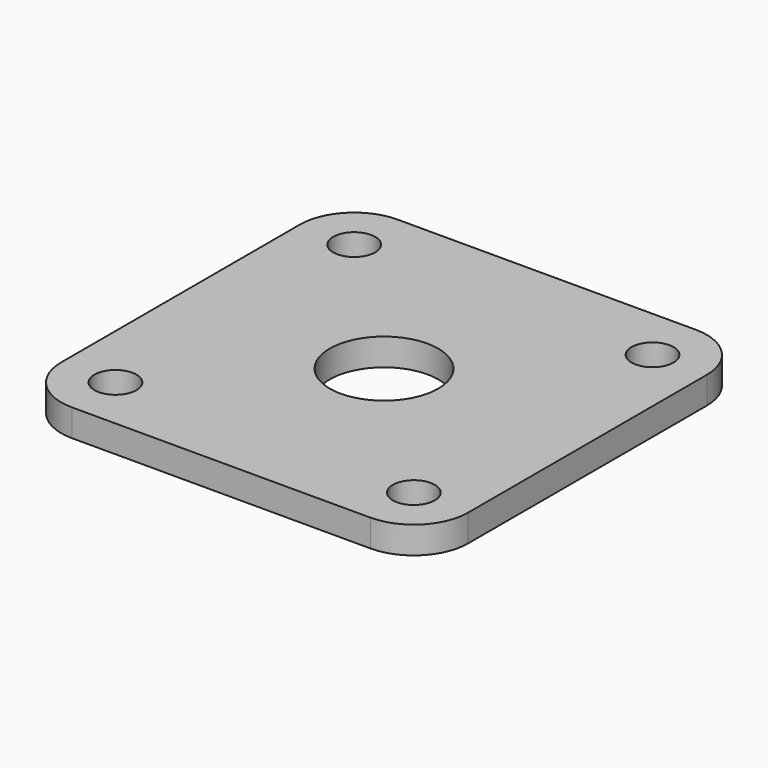
from build123d import *

# Parameters (mm, degrees)
SKETCH_W      = 30
SKETCH_H      = 30
SKETCH_R      = 4
SKETCH_R_2    = 1.55
EXTRUDE_DEPTH = 2
FILLET_R      = 4


with BuildPart() as part:
    # Sketch → Extrude (new body)
    with BuildSketch(Plane.XY):
        Rectangle(SKETCH_W, SKETCH_H)
        Circle(SKETCH_R, mode=Mode.SUBTRACT)
        with Locations((-11, 11)):
            Circle(SKETCH_R_2, mode=Mode.SUBTRACT)
        with Locations((-11, -11)):
            Circle(SKETCH_R_2, mode=Mode.SUBTRACT)
        with Locations((11, -11)):
            Circle(SKETCH_R_2, mode=Mode.SUBTRACT)
        with Locations((11, 11)):
            Circle(SKETCH_R_2, mode=Mode.SUBTRACT)
    extrude(amount=EXTRUDE_DEPTH)

    # Fillet
    fillet_edges = [part.edges().sort_by_distance(p)[0] for p in [
        (-15, -15, 1),
        (15, -15, 1),
        (15, 15, 1),
        (-15, 15, 1),
    ]]
    fillet(fillet_edges, radius=FILLET_R)


solid = part.part
